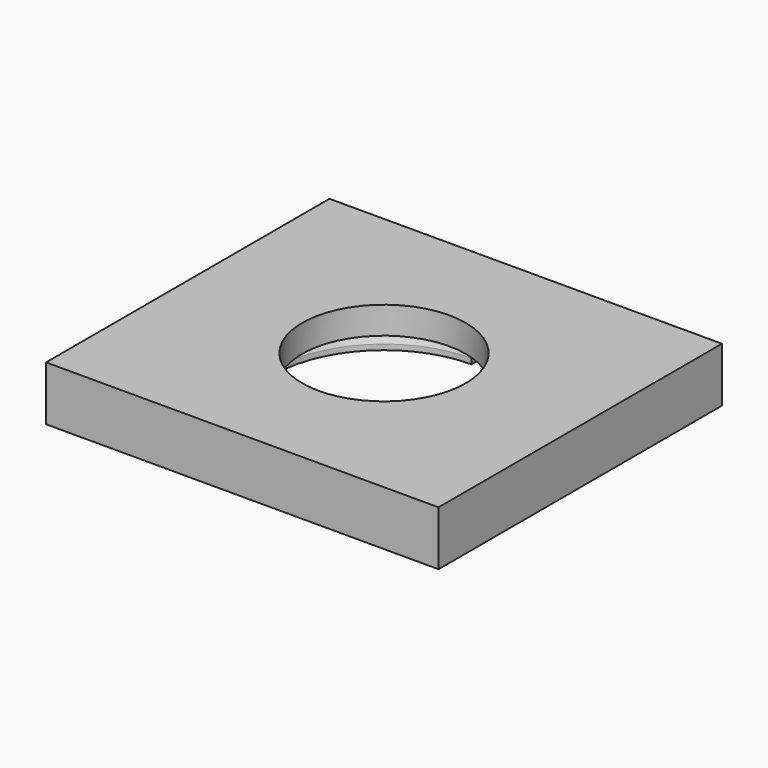
from build123d import *

# Parameters (mm, degrees)
F0_W     = 72
F0_H     = 65
F0_R     = 15
F1_DEPTH = 10
F5_DEPTH = 5


with BuildPart() as f1:
    # F0 (on Top) → F1 (new body)
    with BuildSketch(Plane.XY):
        Rectangle(F0_W, F0_H)
        Circle(F0_R, mode=Mode.SUBTRACT)
    extrude(amount=F1_DEPTH)

    # F2 (on Right) → F3 (revolve, cut)
    with BuildSketch(Plane.YZ):
        Polygon((-20.1, 0), (0, 0), (0, 5), (-21.6, 5), (-20.1, 1), align=None)
    revolve(axis=Axis((0, 0, 2.5), (0, 0, -1)), mode=Mode.SUBTRACT)

    # F4 (on face) → F5 (cut)
    with BuildSketch(Plane(origin=(0, 0, 0), x_dir=(1, 0, 0), z_dir=(0, 0, -1))):
        with BuildLine():
            ThreePointArc((0, 21.6), (-15.273506, 15.273506), (-21.6, 0))
            Line((-21.6, 0), (-20.1, 0))
            ThreePointArc((-20.1, 0), (-14.212846, 14.212846), (0, 20.1))
            Line((0, 20.1), (0, 21.6))
        make_face()
        with BuildLine():
            Line((0, -20.1), (0, -21.6))
            ThreePointArc((0, -21.6), (15.273506, -15.273506), (21.6, 0))
            Line((21.6, 0), (20.1, 0))
            ThreePointArc((20.1, 0), (14.212846, -14.212846), (0, -20.1))
        make_face()
    extrude(amount=-F5_DEPTH, mode=Mode.SUBTRACT)


solid = f1.part
